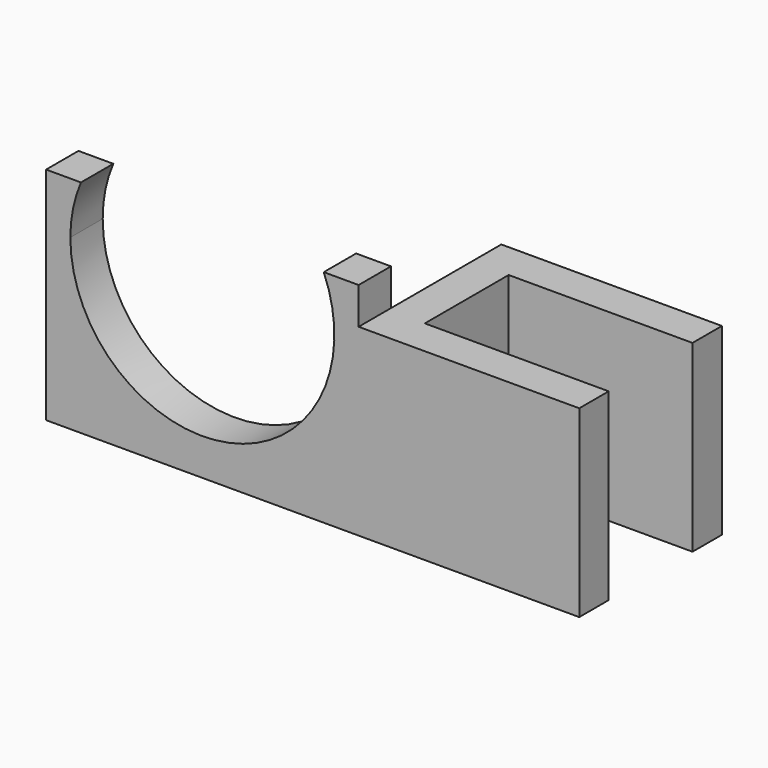
from build123d import *

# Parameters (mm, degrees)
F1_DEPTH = 10
F2_DEPTH = 12
F4_DEPTH = 25


with BuildPart() as f1:
    # F0 (on Top) → F1 (new body)
    with BuildSketch(Plane.XY):
        Polygon((2, -5.5), (2, 0), (10.000001, 0), (12.000001, 0), (12.000001, 2), (10.000001, 2), (0, 2), (0, 0), (0, -5.5), align=None)
        Polygon((2, -5.7), (2, -5.5), (0, -5.5), (0, -5.7), (0, -7.7), (10.000001, -7.7), (12.000001, -7.7), (12.000001, -5.7), (10.000001, -5.7), align=None)
    extrude(amount=F1_DEPTH)

    # F0 (on Top) → F2 (join)
    with BuildSketch(Plane.XY):
        Polygon((0, -5.7), (0, -5.5), (-7.940744, -5.5), (-13.940744, -5.5), (-16, -5.5), (-17, -5.5), (-17, -7.7), (-16, -7.7), (-15, -7.7), (-10, -7.7), (-7.940744, -7.7), (0, -7.7), align=None)
    extrude(amount=F2_DEPTH)

    # F3 (on face) → F4 (cut)
    with BuildSketch(Plane(origin=(0, -5.5, 0), x_dir=(-1, 0, 0), z_dir=(0, 1, 0))):
        with BuildLine():
            ThreePointArc((1.89697, 12), (7.060791, 2.145721), (15.68, 9.18))
            ThreePointArc((15.68, 9.18), (15.534279, 10.619209), (15.10303, 12))
            Line((15.10303, 12), (1.89697, 12))
        make_face()
    extrude(amount=-F4_DEPTH, mode=Mode.SUBTRACT)


solid = f1.part
